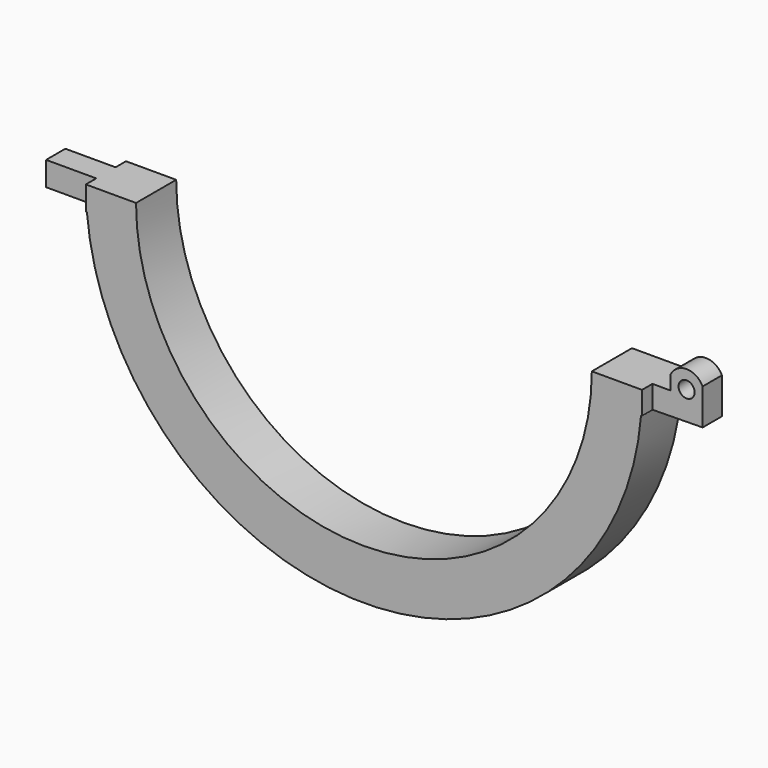
from build123d import *

# Parameters (mm, degrees)
F1_DEPTH = 12.5
F2_W     = 8.6661115155
F2_H     = 37.1920648861
F2_W_2   = 11.7714676749
F2_H_2   = 37.3365031319
F3_DEPTH = 25
F4_W     = 10.3762667931
F4_H     = 26.0754239581
F4_W_2   = 12.8692660095
F4_H_2   = 27.2882347388
F5_DEPTH = 25


with BuildPart() as f1:
    # F0 (on Front) → F1 (new body, symmetric)
    with BuildSketch(Plane.XZ):
        with BuildLine():
            ThreePointArc((113.5, 0), (0, -113.5), (-113.5, 0))
            Line((-113.5, 0), (-138.5, 0))
            Line((-138.5, 0), (-163.5, 0))
            Line((-163.5, 0), (-163.5, -12))
            Line((-163.5, -12), (-137.9791650939, -12))
            ThreePointArc((-137.9791650939, -12), (0.3305438412, -138.4996055618), (138.0348714685, -11.3412635401))
            Line((138.0348714685, -11.3412635401), (163.5, -11))
            Line((163.5, -11), (163.5, 0))
            Line((163.5, 0), (158.027844932, 0))
            ThreePointArc((158.027844932, 0), (155.5, -0.9), (152.972155068, 0))
            Line((152.972155068, 0), (147.5, 0))
            Line((147.5, 0), (138.5, 0))
            Line((138.5, 0), (113.5, 0))
        make_face()
        with BuildLine():
            Line((147.5, 7), (147.5, 0))
            Line((147.5, 0), (152.972155068, 0))
            ThreePointArc((152.972155068, 0), (153.7841007792, 6.7132658169), (159.5, 3.1))
            ThreePointArc((159.5, 3.1), (159.1132658169, 1.3841007792), (158.027844932, 0))
            Line((158.027844932, 0), (163.5, 0))
            Line((163.5, 0), (163.5, 7))
            ThreePointArc((163.5, 7), (155.5, 12), (147.5, 7))
        make_face()
    extrude(amount=F1_DEPTH, both=True)

    # F2 (on face) → F3 (cut)
    with BuildSketch(Plane.YZ.offset(163.5)):
        with Locations((-10.3330557577, -0.399579161)):
            Rectangle(F2_W, F2_H)
        with Locations((11.8857338375, -1.6272780021)):
            Rectangle(F2_W_2, F2_H_2)
    extrude(amount=-F3_DEPTH, mode=Mode.SUBTRACT)

    # F4 (on face) → F5 (cut)
    with BuildSketch(Plane(origin=(-163.5, 0, 0), x_dir=(0, -1, 0), z_dir=(-1, 0, 0))):
        with Locations((-11.1881333965, -6.0408366425)):
            Rectangle(F4_W, F4_H)
        with Locations((12.4346330048, -6.9841346379)):
            Rectangle(F4_W_2, F4_H_2)
    extrude(amount=-F5_DEPTH, mode=Mode.SUBTRACT)


solid = f1.part
